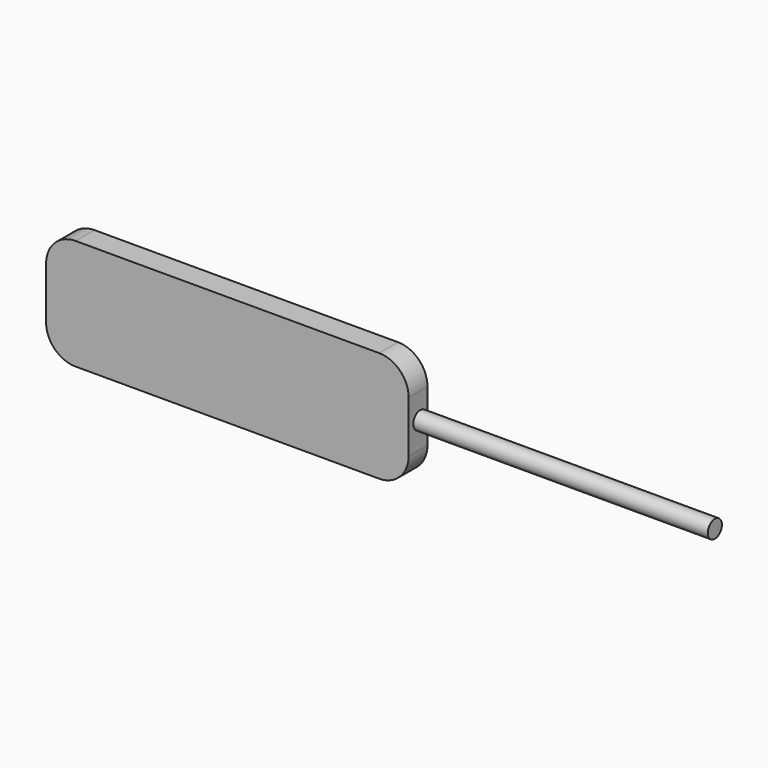
from build123d import *

# Parameters (mm, degrees)
F1_DEPTH = 4
F2_R     = 1.5
F3_DEPTH = 50


with BuildPart() as f1:
    # F0 (on Front) → F1 (new body)
    with BuildSketch(Plane.XZ):
        with BuildLine():
            Line((23.162254, 10.430464), (-28.377483, 10.430464))
            ThreePointArc((-28.377483, 10.430464), (-31.913017, 8.965997), (-33.377483, 5.430464))
            Line((-33.377483, 5.430464), (-33.377483, -3.344371))
            ThreePointArc((-33.377483, -3.344371), (-31.913017, -6.879905), (-28.377483, -8.344371))
            Line((-28.377483, -8.344371), (23.162254, -8.344371))
            ThreePointArc((23.162254, -8.344371), (26.697788, -6.879905), (28.162254, -3.344371))
            Line((28.162254, -3.344371), (28.162254, 5.430464))
            ThreePointArc((28.162254, 5.430464), (26.697788, 8.965997), (23.162254, 10.430464))
        make_face()
    extrude(amount=F1_DEPTH)

    # F2 (on face) → F3 (join)
    with BuildSketch(Plane.YZ.offset(28.162254)):
        with Locations((-1.518368, 1.043046)):
            Circle(F2_R)
    extrude(amount=F3_DEPTH)


solid = f1.part
